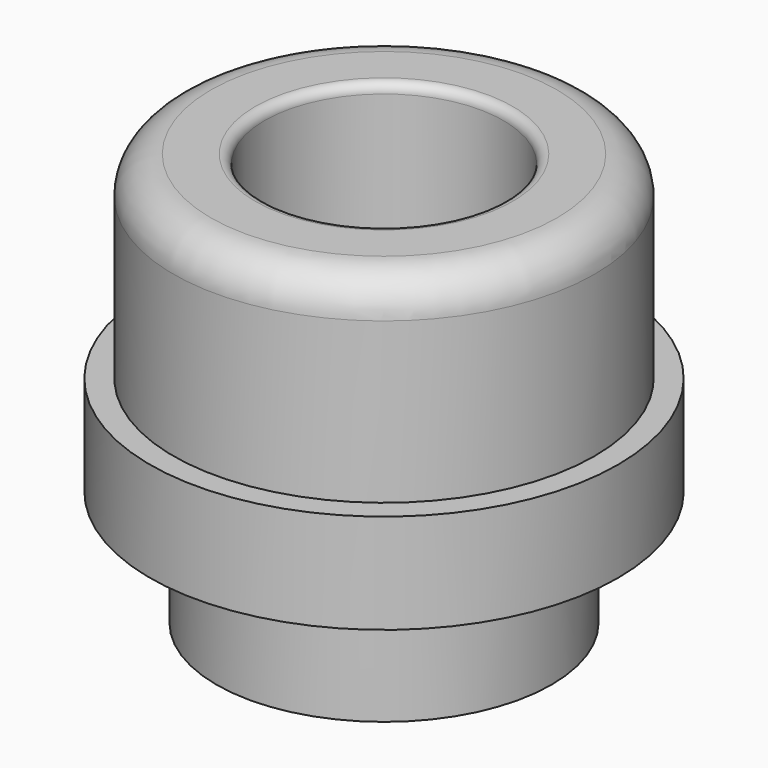
from build123d import *

# Parameters (mm, degrees)
F2_R = 0.8
F3_R = 0.2


with BuildPart() as f1:
    # F0 (on Front) → F1 (revolve)
    with BuildSketch(Plane.XZ):
        Polygon((-2.55, -2.47), (-2.55, 6.35), (-4.5, 6.35), (-4.5, 2.13), (-5, 2.13), (-5, 0), (-3.58, 0), (-3.58, -2.47), align=None)
    revolve(axis=Axis((0, 0, -0.888866), (0, 0, -1)))

    # F2
    f2_edges = [f1.edges().sort_by_distance(p)[0] for p in [
        (4.5, 0, 6.35),
    ]]
    fillet(f2_edges, radius=F2_R)

    # F3
    f3_edges = [f1.edges().sort_by_distance(p)[0] for p in [
        (2.55, 0, 6.35),
    ]]
    fillet(f3_edges, radius=F3_R)


solid = f1.part
